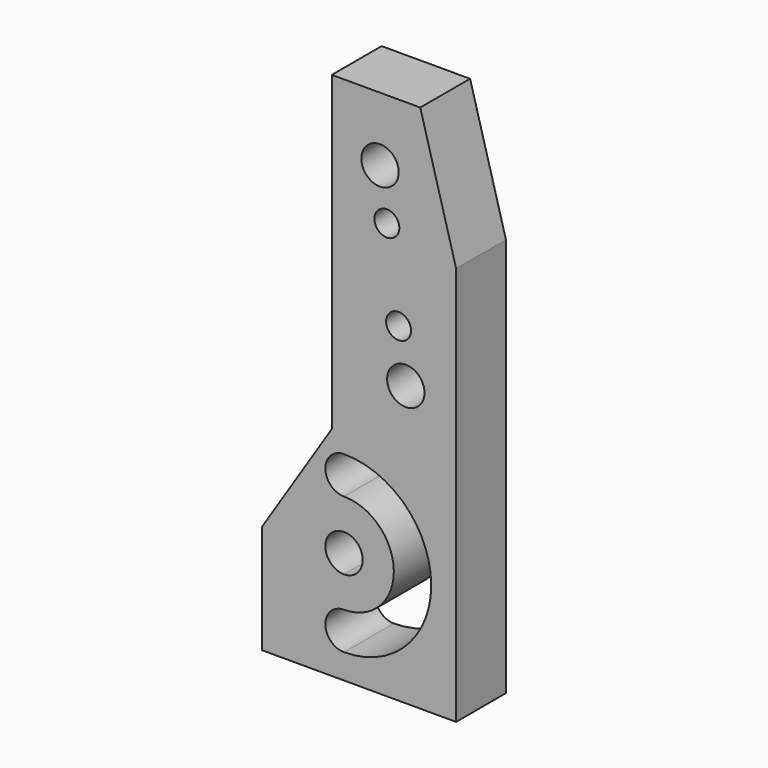
from build123d import *

# Parameters (mm, degrees)
F0_W     = 15.58
F0_H     = 42.48
F1_DEPTH = 5
F3_DEPTH = 5
F5_DEPTH = 5
F6_R     = 1.5
F6_R_2   = 1
F7_DEPTH = 5
F9_DEPTH = 5


with BuildPart() as f1:
    # F0 (on Front) → F1 (new body)
    with BuildSketch(Plane.XZ):
        Rectangle(F0_W, F0_H)
    extrude(amount=-F1_DEPTH)

    # F2 (on face) → F3 (cut, through all)
    with BuildSketch(Plane.XZ):
        Polygon((4.91, 21.24), (7.79, 10.8), (7.79, 21.24), align=None)
    extrude(amount=-F3_DEPTH, mode=Mode.SUBTRACT)

    # F4 (on face) → F5 (cut, through all)
    with BuildSketch(Plane.XZ):
        Polygon((-2.19, -3.79), (-2.19, 21.24), (-7.79, 21.24), (-7.79, -12.515), align=None)
    extrude(amount=-F5_DEPTH, mode=Mode.SUBTRACT)

    # F6 (on face) → F7 (cut, through all)
    with BuildSketch(Plane.XZ):
        with Locations((3.75, 1.19)):
            Circle(F6_R)
        with Locations((3.17, 5.23)):
            Circle(F6_R_2)
        with Locations((2.23, 12.18)):
            Circle(F6_R_2)
        with Locations((1.68, 16.1)):
            Circle(F6_R)
    extrude(amount=-F7_DEPTH, mode=Mode.SUBTRACT)

    # F8 (on face) → F9 (cut, through all)
    with BuildSketch(Plane.XZ):
        with BuildLine():
            ThreePointArc((-1.21, -16.24), (-2.71, -17.74), (-1.21, -19.24))
            Line((-1.21, -19.24), (-1.21, -17.74))
            Line((-1.21, -17.74), (-1.21, -16.74))
            Line((-1.21, -16.74), (-1.21, -16.24))
        make_face()
        with BuildLine():
            Line((-1.21, -17.74), (-1.21, -19.24))
            ThreePointArc((-1.21, -19.24), (5.79, -12.24), (-1.21, -5.24))
            Line((-1.21, -5.24), (-1.21, -6.74))
            Line((-1.21, -6.74), (-1.21, -8.24))
            ThreePointArc((-1.21, -8.24), (2.79, -12.24), (-1.21, -16.24))
            Line((-1.21, -16.24), (-1.21, -16.74))
            Line((-1.21, -16.74), (-1.21, -17.74))
        make_face()
        with BuildLine():
            ThreePointArc((0.29, -12.24), (-2.27066, -11.17934), (-1.21, -13.74))
            ThreePointArc((-1.21, -13.74), (-0.14934, -13.30066), (0.29, -12.24))
        make_face()
        with BuildLine():
            Line((-1.21, -6.74), (-1.21, -5.24))
            ThreePointArc((-1.21, -5.24), (-2.71, -6.74), (-1.21, -8.24))
            Line((-1.21, -8.24), (-1.21, -6.74))
        make_face()
    extrude(amount=-F9_DEPTH, mode=Mode.SUBTRACT)


solid = f1.part
